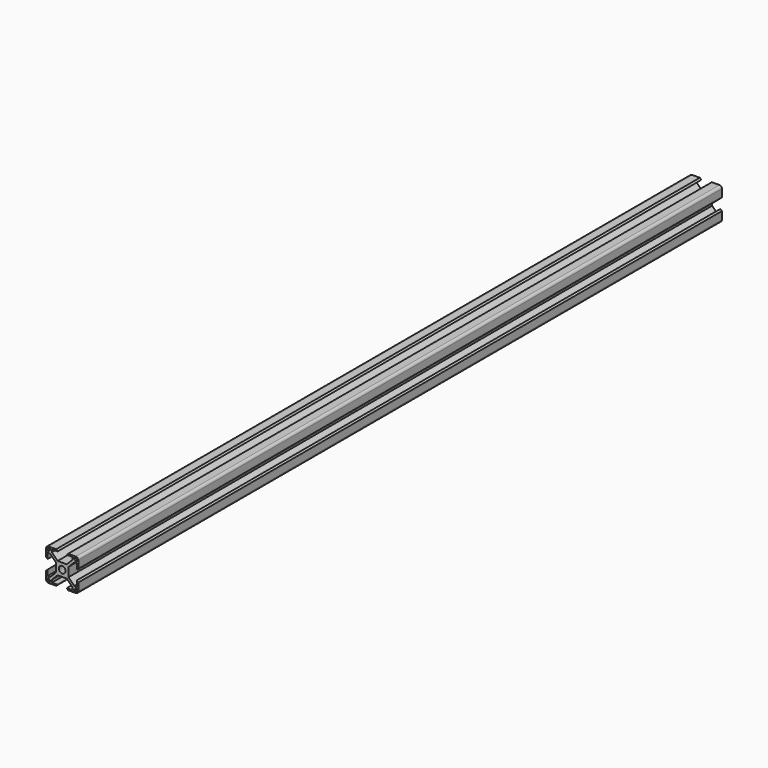
from build123d import *

# Parameters (mm, degrees)
F1_DEPTH = 500
F2_R     = 1.5


with BuildPart() as f1:
    # F0 (on Front) → F1 (new body)
    with BuildSketch(Plane.XZ):
        Polygon((-7.46, 9.1), (-6.39934, 9.1), (-2.84, 9.1), (-3.74, 10), (-10, 10), (-10, 3.74), (-9.1, 2.84), (-9.1, 6.39934), (-9.1, 7.444134), (-9.124691, 7.46934), (-9.1, 9.1), align=None)
        Polygon((-7.399089, 8.459749), (-6.39934, 7.46), (-6.39934, 9.1), (-7.46, 9.1), (-7.110116, 8.742815), align=None)
        Polygon((-7.46, 6.39934), (-8.470702, 7.410042), (-8.774807, 7.112154), (-9.1, 7.444134), (-9.1, 6.39934), align=None)
        with BuildLine():
            ThreePointArc((-1.917323, 0.856663), (-1.729884, 1.190588), (-1.484924, 1.484924))
            Line((-1.484924, 1.484924), (-7.934896, 7.934896))
            Line((-7.934896, 7.934896), (-8.470702, 7.410042))
            Line((-8.470702, 7.410042), (-7.46, 6.39934))
            Line((-7.46, 6.39934), (-3.90066, 2.84))
            Line((-3.90066, 2.84), (-1.917323, 0.856663))
        make_face()
        with BuildLine():
            ThreePointArc((-1.484924, 1.484924), (-1.190588, 1.729884), (-0.856663, 1.917323))
            Line((-0.856663, 1.917323), (-2.84, 3.90066))
            Line((-2.84, 3.90066), (-6.39934, 7.46))
            Line((-6.39934, 7.46), (-7.399089, 8.459749))
            Line((-7.399089, 8.459749), (-7.934896, 7.934896))
            Line((-7.934896, 7.934896), (-1.484924, 1.484924))
        make_face()
        with BuildLine():
            ThreePointArc((0.856663, 1.917323), (1.484924, 1.484924), (1.917323, 0.856663))
            Line((1.917323, 0.856663), (3.90066, 2.84))
            Line((3.90066, 2.84), (7.46, 6.39934))
            Line((7.46, 6.39934), (9.1, 6.39934))
            Line((9.1, 6.39934), (9.1, 2.84))
            Line((9.1, 2.84), (10, 3.74))
            Line((10, 3.74), (10, 10))
            Line((10, 10), (3.74, 10))
            Line((3.74, 10), (2.84, 9.1))
            Line((2.84, 9.1), (6.39934, 9.1))
            Line((6.39934, 9.1), (6.39934, 7.46))
            Line((6.39934, 7.46), (2.84, 3.90066))
            Line((2.84, 3.90066), (0.856663, 1.917323))
        make_face()
        Polygon((7.112154, 8.774807), (7.46934, 9.124691), (9.1, 9.1), (9.1, 7.46), (8.742815, 7.110116), align=None, mode=Mode.SUBTRACT)
        with BuildLine():
            ThreePointArc((1.917323, 0.856663), (2.053823, 0.437962), (2.1, 0))
            ThreePointArc((2.1, 0), (2.053823, -0.437962), (1.917323, -0.856663))
            Line((1.917323, -0.856663), (3.90066, -2.84))
            Line((3.90066, -2.84), (3.90066, 2.84))
            Line((3.90066, 2.84), (1.917323, 0.856663))
        make_face()
        with BuildLine():
            ThreePointArc((-0.856663, 1.917323), (0, 2.1), (0.856663, 1.917323))
            Line((0.856663, 1.917323), (2.84, 3.90066))
            Line((2.84, 3.90066), (-2.84, 3.90066))
            Line((-2.84, 3.90066), (-0.856663, 1.917323))
        make_face()
        with BuildLine():
            ThreePointArc((-1.917323, -0.856663), (-2.1, 0), (-1.917323, 0.856663))
            Line((-1.917323, 0.856663), (-3.90066, 2.84))
            Line((-3.90066, 2.84), (-3.90066, -2.84))
            Line((-3.90066, -2.84), (-1.917323, -0.856663))
        make_face()
        with BuildLine():
            Line((2.84, -3.90066), (0.856663, -1.917323))
            ThreePointArc((0.856663, -1.917323), (0, -2.1), (-0.856663, -1.917323))
            Line((-0.856663, -1.917323), (-2.84, -3.90066))
            Line((-2.84, -3.90066), (2.84, -3.90066))
        make_face()
        with BuildLine():
            Line((-2.84, -3.90066), (-0.856663, -1.917323))
            ThreePointArc((-0.856663, -1.917323), (-1.190588, -1.729884), (-1.484924, -1.484924))
            Line((-1.484924, -1.484924), (-7.934896, -7.934896))
            Line((-7.934896, -7.934896), (-7.410042, -8.470702))
            Line((-7.410042, -8.470702), (-6.39934, -7.46))
            Line((-6.39934, -7.46), (-2.84, -3.90066))
        make_face()
        with BuildLine():
            Line((-7.934896, -7.934896), (-1.484924, -1.484924))
            ThreePointArc((-1.484924, -1.484924), (-1.729884, -1.190588), (-1.917323, -0.856663))
            Line((-1.917323, -0.856663), (-3.90066, -2.84))
            Line((-3.90066, -2.84), (-7.46, -6.39934))
            Line((-7.46, -6.39934), (-8.459749, -7.399089))
            Line((-8.459749, -7.399089), (-7.934896, -7.934896))
        make_face()
        with BuildLine():
            Line((7.934896, -7.934896), (1.484924, -1.484924))
            ThreePointArc((1.484924, -1.484924), (1.190588, -1.729884), (0.856663, -1.917323))
            Line((0.856663, -1.917323), (2.84, -3.90066))
            Line((2.84, -3.90066), (6.39934, -7.46))
            Line((6.39934, -7.46), (7.399089, -8.459749))
            Line((7.399089, -8.459749), (7.934896, -7.934896))
        make_face()
        with BuildLine():
            Line((3.90066, -2.84), (1.917323, -0.856663))
            ThreePointArc((1.917323, -0.856663), (1.729884, -1.190588), (1.484924, -1.484924))
            Line((1.484924, -1.484924), (7.934896, -7.934896))
            Line((7.934896, -7.934896), (8.470702, -7.410042))
            Line((8.470702, -7.410042), (7.46, -6.39934))
            Line((7.46, -6.39934), (3.90066, -2.84))
        make_face()
        Polygon((9.1, -2.84), (9.1, -6.39934), (9.1, -7.444134), (9.124691, -7.46934), (9.1, -9.1), (7.46, -9.1), (6.39934, -9.1), (2.84, -9.1), (3.74, -10), (10, -10), (10, -3.74), align=None)
        Polygon((9.1, -6.39934), (7.46, -6.39934), (8.470702, -7.410042), (8.774807, -7.112154), (9.1, -7.444134), align=None)
        Polygon((7.110116, -8.742815), (7.399089, -8.459749), (6.39934, -7.46), (6.39934, -9.1), (7.46, -9.1), align=None)
        Polygon((-2.84, -9.1), (-6.39934, -9.1), (-7.444134, -9.1), (-7.46934, -9.124691), (-9.1, -9.1), (-9.1, -7.46), (-9.1, -6.39934), (-9.1, -2.84), (-10, -3.74), (-10, -10), (-3.74, -10), align=None)
        Polygon((-6.39934, -9.1), (-6.39934, -7.46), (-7.410042, -8.470702), (-7.112154, -8.774807), (-7.444134, -9.1), align=None)
        Polygon((-8.742815, -7.110116), (-8.459749, -7.399089), (-7.46, -6.39934), (-9.1, -6.39934), (-9.1, -7.46), align=None)
    extrude(amount=F1_DEPTH)

    # F2
    f2_edges = [f1.edges().sort_by_distance(p)[0] for p in [
        (10, -250, 10),
        (-10, -250, 10),
        (-10, -250, -10),
        (10, -250, -10),
    ]]
    fillet(f2_edges, radius=F2_R)


solid = f1.part
